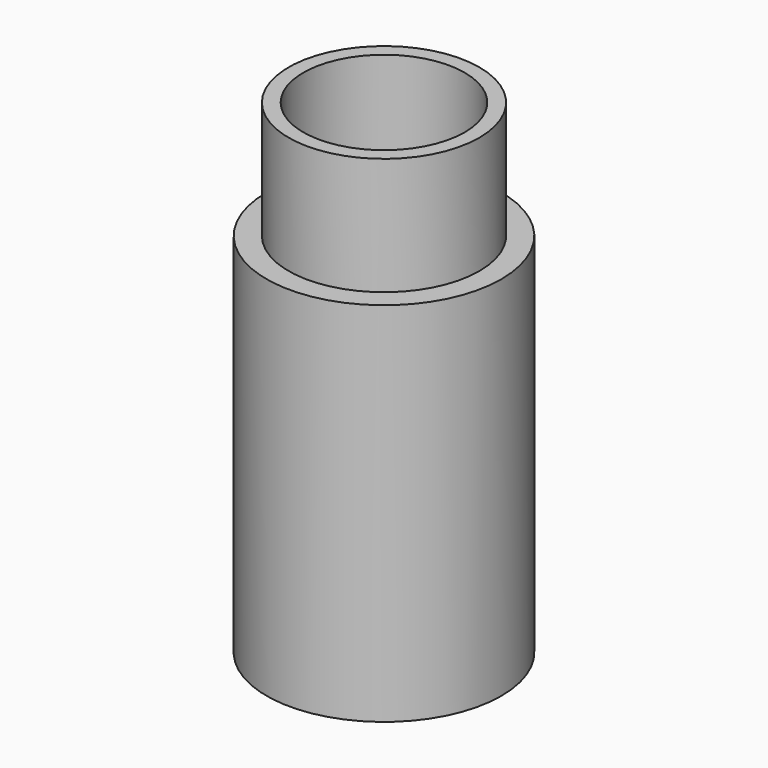
from build123d import *

# Parameters (mm, degrees)
F0_R     = 10.16
F0_R_2   = 6.985
F1_DEPTH = 31.75
F2_R     = 8.255
F2_R_2   = 6.985
F3_DEPTH = 10.16
F4_R     = 6.985
F4_R_2   = 4.445
F5_DEPTH = 10.16


with BuildPart() as f1:
    # F0 (on Top) → F1 (new body)
    with BuildSketch(Plane.XY):
        Circle(F0_R)
        Circle(F0_R_2, mode=Mode.SUBTRACT)
    extrude(amount=F1_DEPTH)

    # F2 (on face) → F3 (join)
    with BuildSketch(Plane.XY.offset(31.75)):
        Circle(F2_R)
        Circle(F2_R_2, mode=Mode.SUBTRACT)
    extrude(amount=F3_DEPTH)

    # F4 (on face) → F5 (join)
    with BuildSketch(Plane(origin=(0, 0, 0), x_dir=(1, 0, 0), z_dir=(0, 0, -1))):
        Circle(F4_R)
        Circle(F4_R_2, mode=Mode.SUBTRACT)
    extrude(amount=-F5_DEPTH)


solid = f1.part
